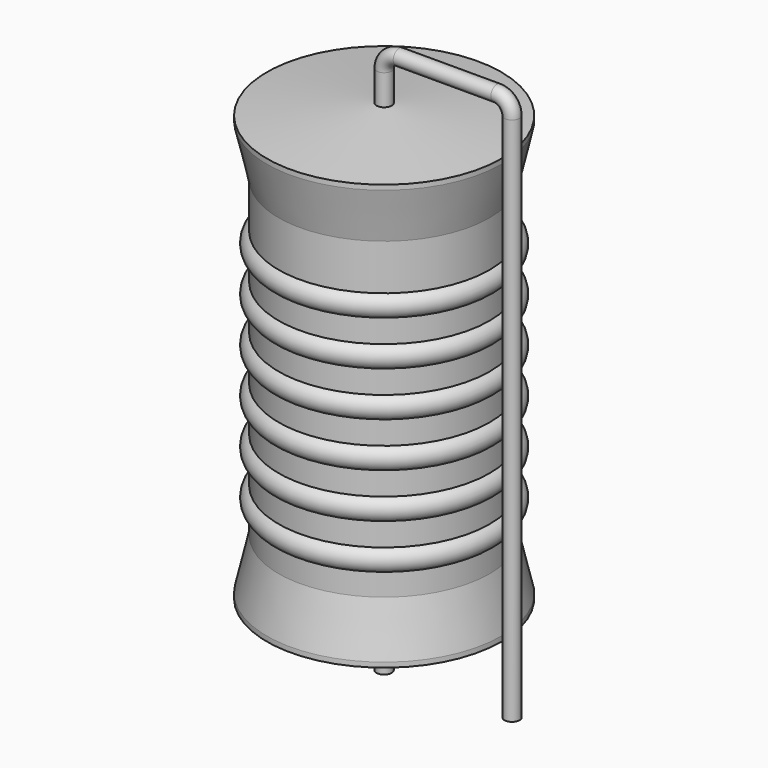
from build123d import *

# Parameters (mm, degrees)
SKETCH_R = 0.45


with BuildPart() as sweep_body:
    # Sweep: sweep along a path in Sketch001
    with BuildLine(Plane.XZ) as sweep_path:
        Line((0, -3), (0, 28.57))
        ThreePointArc((0, 28.57), (0.263607, 29.206399), (0.900008, 29.47))
        Line((0.900008, 29.47), (6.72, 29.47))
        ThreePointArc((6.72, 29.47), (7.356396, 29.206396), (7.62, 28.57))
        Line((7.62, 28.57), (7.62, -3))
    # Sketch → Sweep (sweep)
    with BuildSketch(Plane.XY.offset(-2)):
        Circle(SKETCH_R)
    sweep(path=sweep_path.line)


with BuildPart() as revolution:
    # Sketch002 → Revolution (revolve)
    with BuildSketch(Plane.XZ):
        Polygon((0, 0.1), (0, 26.77), (0.3375, 26.77), (6.985, 26.10325), (6.985, 25.81075), (6.2865, 22.7695), (6.2865, 4.1005), (6.985, 1.05925), (6.985, 0.76675), (0.3375, 0.1), align=None)
    revolve(axis=Axis((0, 0, 0), (0, 0, 1)))


with BuildPart() as revolution001:
    # Sketch003 → Revolution001 (revolve)
    with BuildSketch(Plane.XZ):
        with BuildLine():
            Line((5.588, 21.3725), (5.588, 4.1005))
            Line((5.588, 4.1005), (6.0071, 4.1005))
            Line((6.0071, 4.1005), (6.0071, 5.3705))
            ThreePointArc((6.0071, 5.3705), (6.7056, 6.069), (6.0071, 6.7675))
            Line((6.0071, 6.7675), (6.0071, 8.0375))
            ThreePointArc((6.0071, 8.0375), (6.7056, 8.736), (6.0071, 9.4345))
            Line((6.0071, 9.4345), (6.0071, 10.7045))
            ThreePointArc((6.0071, 10.7045), (6.7056, 11.403), (6.0071, 12.1015))
            Line((6.0071, 12.1015), (6.0071, 13.3715))
            ThreePointArc((6.0071, 13.3715), (6.7056, 14.07), (6.0071, 14.7685))
            Line((6.0071, 14.7685), (6.0071, 16.0385))
            ThreePointArc((6.0071, 16.0385), (6.7056, 16.737), (6.0071, 17.4355))
            Line((6.0071, 17.4355), (6.0071, 18.7055))
            ThreePointArc((6.0071, 18.7055), (6.7056, 19.404), (6.0071, 20.1025))
            Line((6.0071, 21.3725), (6.0071, 20.1025))
            Line((5.588, 21.3725), (6.0071, 21.3725))
        make_face()
    revolve(axis=Axis((0, 0, 0), (0, 0, 1)))


solid = Compound([sweep_body.part, revolution.part, revolution001.part])
